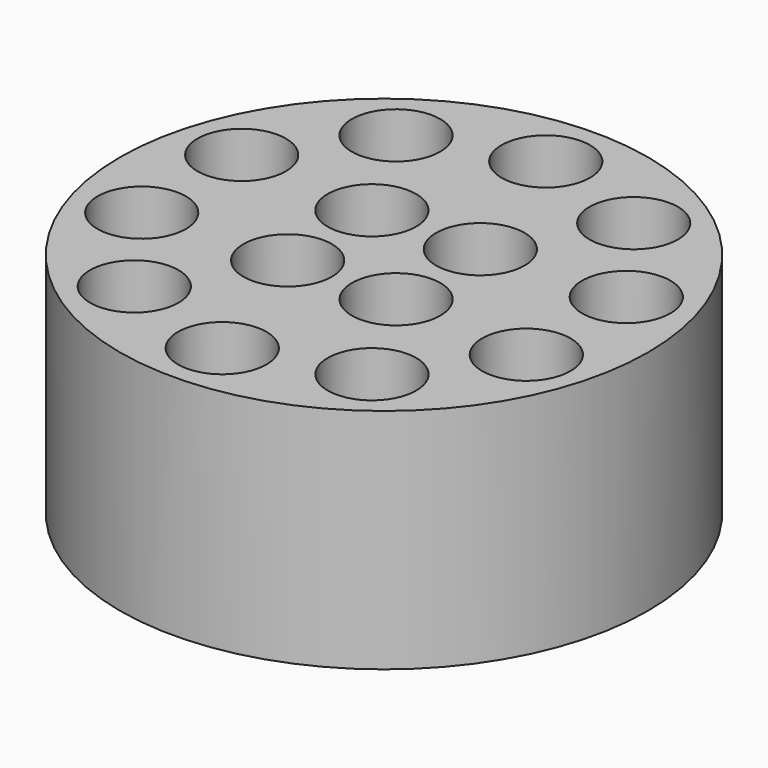
from build123d import *

# Parameters (mm, degrees)
F0_R     = 20.9
F0_R_2   = 3.5
F1_DEPTH = 18


with BuildPart() as f1:
    # F0 (on Top) → F1 (new body)
    with BuildSketch(Plane.XY):
        Circle(F0_R)
        with Locations((0, -16)):
            Circle(F0_R_2, mode=Mode.SUBTRACT)
        with Locations((-9.404564, -12.944272)):
            Circle(F0_R_2, mode=Mode.SUBTRACT)
        with Locations((-15.216904, -4.944272)):
            Circle(F0_R_2, mode=Mode.SUBTRACT)
        with Locations((-4.18085, -4.303544)):
            Circle(F0_R_2, mode=Mode.SUBTRACT)
        with Locations((9.404564, -12.944272)):
            Circle(F0_R_2, mode=Mode.SUBTRACT)
        with Locations((4.303544, -4.18085)):
            Circle(F0_R_2, mode=Mode.SUBTRACT)
        with Locations((15.216904, -4.944272)):
            Circle(F0_R_2, mode=Mode.SUBTRACT)
        with Locations((-15.216904, 4.944272)):
            Circle(F0_R_2, mode=Mode.SUBTRACT)
        with Locations((-4.303544, 4.18085)):
            Circle(F0_R_2, mode=Mode.SUBTRACT)
        with Locations((-9.404564, 12.944272)):
            Circle(F0_R_2, mode=Mode.SUBTRACT)
        with Locations((0, 16)):
            Circle(F0_R_2, mode=Mode.SUBTRACT)
        with Locations((4.18085, 4.303544)):
            Circle(F0_R_2, mode=Mode.SUBTRACT)
        with Locations((15.216904, 4.944272)):
            Circle(F0_R_2, mode=Mode.SUBTRACT)
        with Locations((9.404564, 12.944272)):
            Circle(F0_R_2, mode=Mode.SUBTRACT)
    extrude(amount=F1_DEPTH)


solid = f1.part
